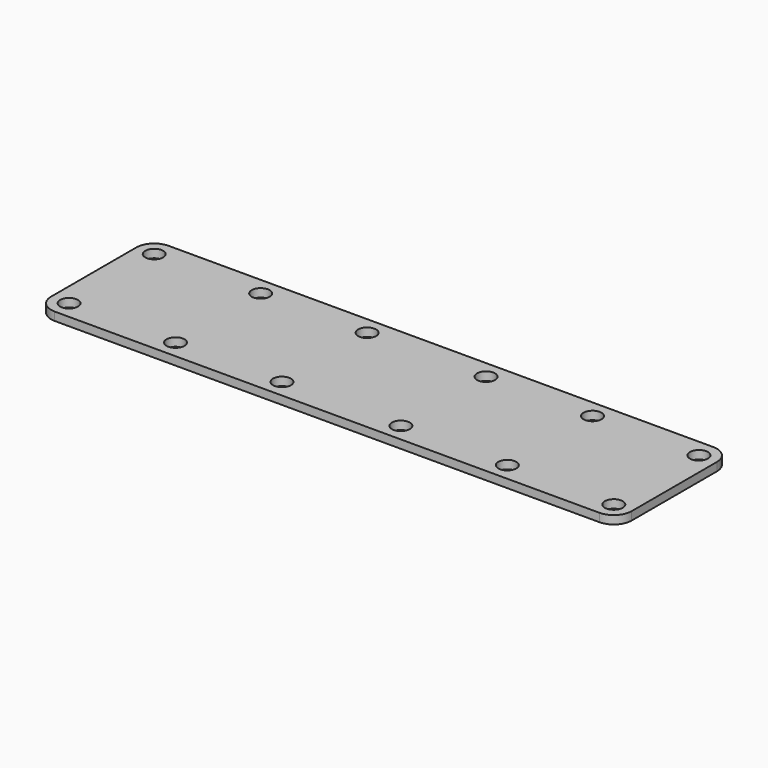
from build123d import *

# Parameters (mm, degrees)
F0_R     = 3.25
F1_DEPTH = 3


with BuildPart() as f1:
    # F0 (on Top) → F1 (new body)
    with BuildSketch(Plane.XY):
        with BuildLine():
            Line((99.981663, 8.963335), (-97.018337, 8.963335))
            ThreePointArc((-97.018337, 8.963335), (-101.614531, 7.059529), (-103.518337, 2.463335))
            Line((-103.518337, 2.463335), (-103.518337, -36.036665))
            ThreePointArc((-103.518337, -36.036665), (-101.614531, -40.632859), (-97.018337, -42.536665))
            Line((-97.018337, -42.536665), (99.981663, -42.536665))
            ThreePointArc((99.981663, -42.536665), (104.577858, -40.632859), (106.481663, -36.036665))
            Line((106.481663, -36.036665), (106.481663, 2.463335))
            ThreePointArc((106.481663, 2.463335), (104.577858, 7.059529), (99.981663, 8.963335))
        make_face()
        with Locations((-97.018337, -36.036665)):
            Circle(F0_R, mode=Mode.SUBTRACT)
        with Locations((-58.518337, -36.036665)):
            Circle(F0_R, mode=Mode.SUBTRACT)
        with Locations((-20.018337, -36.036665)):
            Circle(F0_R, mode=Mode.SUBTRACT)
        with Locations((22.981663, -36.036665)):
            Circle(F0_R, mode=Mode.SUBTRACT)
        with Locations((61.481663, -36.036665)):
            Circle(F0_R, mode=Mode.SUBTRACT)
        with Locations((99.981663, -36.036665)):
            Circle(F0_R, mode=Mode.SUBTRACT)
        with Locations((-97.018337, 2.463335)):
            Circle(F0_R, mode=Mode.SUBTRACT)
        with Locations((-58.518337, 2.463335)):
            Circle(F0_R, mode=Mode.SUBTRACT)
        with Locations((-20.018337, 2.463335)):
            Circle(F0_R, mode=Mode.SUBTRACT)
        with Locations((22.981663, 2.463335)):
            Circle(F0_R, mode=Mode.SUBTRACT)
        with Locations((61.481663, 2.463335)):
            Circle(F0_R, mode=Mode.SUBTRACT)
        with Locations((99.981663, 2.463335)):
            Circle(F0_R, mode=Mode.SUBTRACT)
    extrude(amount=F1_DEPTH)


solid = f1.part
